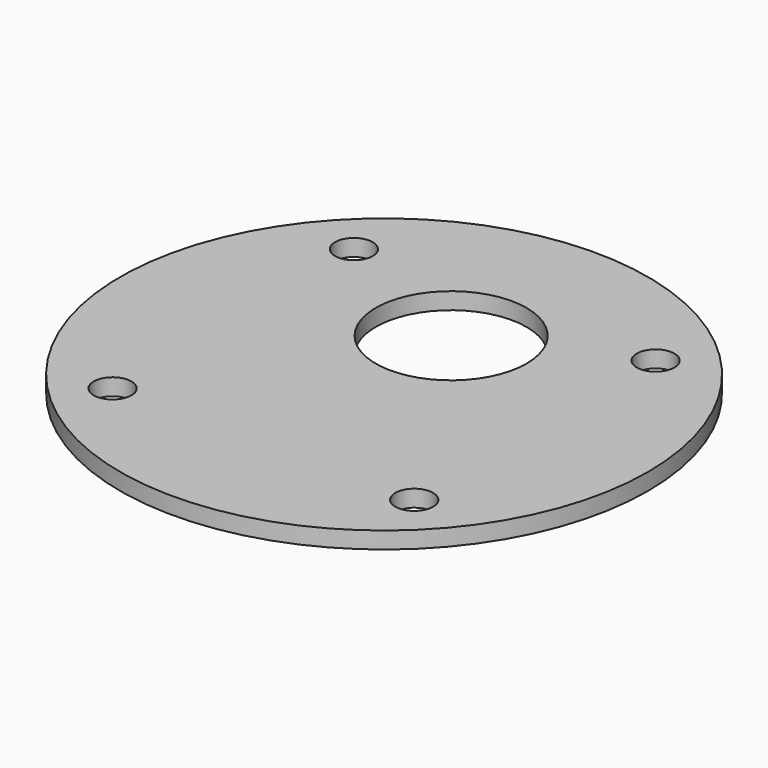
from build123d import *

# Parameters (mm, degrees)
F0_R     = 31.5
F0_R_2   = 2.25
F0_R_3   = 11.5
F0_R_4   = 9
F1_DEPTH = 2


with BuildPart() as f1:
    # F0 (on Top) → F1 (new body)
    with BuildSketch(Plane.XY):
        with Locations((0, -7)):
            Circle(F0_R)
        with Locations((-18, -25)):
            Circle(F0_R_2, mode=Mode.SUBTRACT)
        with Locations((18, -25)):
            Circle(F0_R_2, mode=Mode.SUBTRACT)
        with Locations((-18, 11)):
            Circle(F0_R_2, mode=Mode.SUBTRACT)
        with Locations((0, 3)):
            Circle(F0_R_3, mode=Mode.SUBTRACT)
        with Locations((18, 11)):
            Circle(F0_R_2, mode=Mode.SUBTRACT)
        with Locations((0, 3)):
            Circle(F0_R_3)
        with Locations((0, 3)):
            Circle(F0_R_4, mode=Mode.SUBTRACT)
    extrude(amount=-F1_DEPTH)


solid = f1.part
